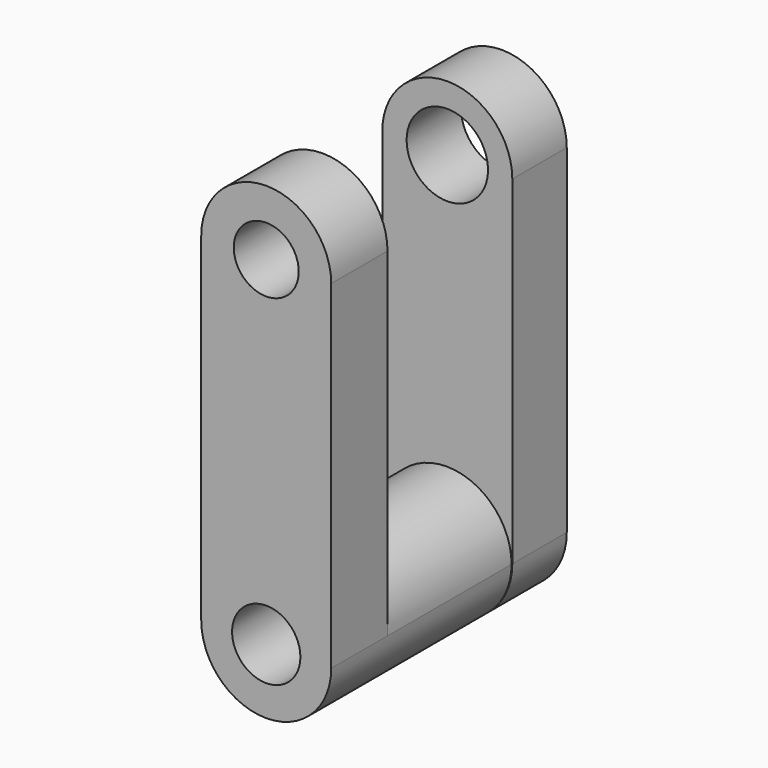
from build123d import *

# Parameters (mm, degrees)
F1_DEPTH  = 44.45
F2_W      = 23.552729
F2_H      = 77.123636
F3_DEPTH  = 101.6
F4_R      = 4.905121
F5_DEPTH  = 74.93
F7_DEPTH  = 34.036
F8_R      = 5.155534
F9_DEPTH  = 30.226
F10_R     = 6.145174
F10_R_2   = 4.905121
F11_DEPTH = 23.622
F12_R     = 6.308934
F13_DEPTH = 3.048


with BuildPart() as f1:
    # F0 (on Front) → F1 (new body)
    with BuildSketch(Plane.XZ):
        with BuildLine():
            ThreePointArc((-19.627273, 0), (-9.813637, -9.813637), (0, 0))
            Line((0, 0), (0, 51.146362))
            ThreePointArc((0, 51.146362), (-9.813637, 60.959999), (-19.627273, 51.146362))
            Line((-19.627273, 51.146362), (-19.627273, 0))
        make_face()
    extrude(amount=-F1_DEPTH)

    # F2 (on Right) → F3 (cut)
    with BuildSketch(Plane.YZ):
        with Locations((22.398182, 25.515455)):
            Rectangle(F2_W, F2_H)
    extrude(amount=-F3_DEPTH, mode=Mode.SUBTRACT)

    # F4 (on face) → F5 (cut)
    with BuildSketch(Plane.XZ):
        with Locations((-9.813637, 51.146362)):
            Circle(F4_R)
    extrude(amount=-F5_DEPTH, mode=Mode.SUBTRACT)

    # F6 (on face) → F7 (join)
    with BuildSketch(Plane.XZ):
        with BuildLine():
            ThreePointArc((-19.627273, 0), (-9.813637, -9.813637), (0, 0))
            ThreePointArc((0, 0), (-9.813637, 9.813637), (-19.627273, 0))
        make_face()
    extrude(amount=-F7_DEPTH)

    # F8 (on face) → F9 (cut)
    with BuildSketch(Plane.XZ):
        with Locations((-9.813637, 0)):
            Circle(F8_R)
    extrude(amount=-F9_DEPTH, mode=Mode.SUBTRACT)

    # F10 (on face) → F11 (cut)
    with BuildSketch(Plane(origin=(0, 44.45, 0), x_dir=(-1, 0, 0), z_dir=(0, 1, 0))):
        with Locations((9.813637, 51.146362)):
            Circle(F10_R)
        with Locations((9.813637, 51.146362)):
            Circle(F10_R_2, mode=Mode.SUBTRACT)
    extrude(amount=-F11_DEPTH, mode=Mode.SUBTRACT)

    # F12 (on face) → F13 (cut)
    with BuildSketch(Plane(origin=(0, 44.45, 0), x_dir=(-1, 0, 0), z_dir=(0, 1, 0))):
        with Locations((9.813637, 0)):
            Circle(F12_R)
    extrude(amount=-F13_DEPTH, mode=Mode.SUBTRACT)


solid = f1.part
